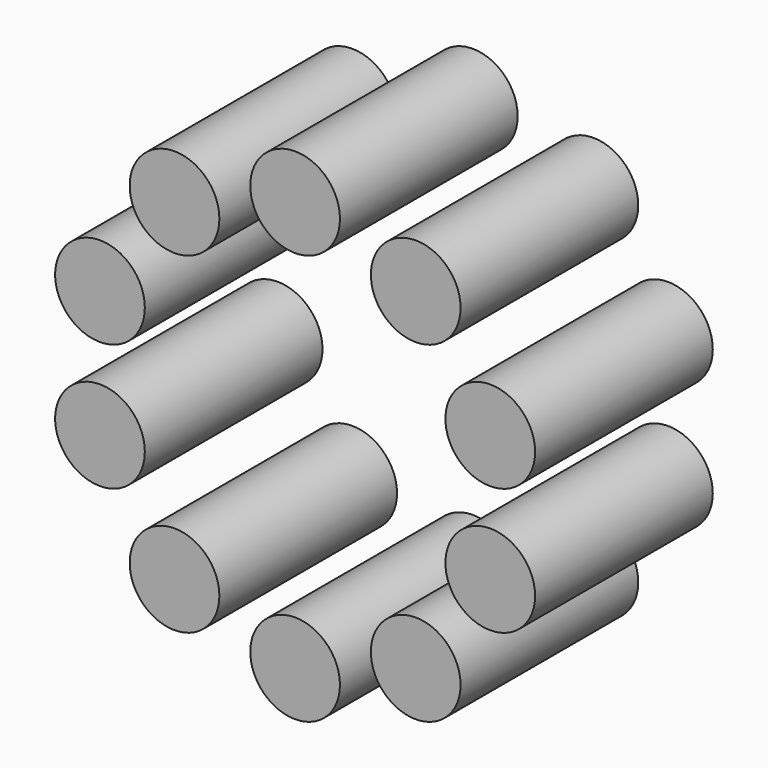
from build123d import *

# Parameters (mm, degrees)
F1_R     = 5.128553
F0_R     = 5.128553
F2_DEPTH = 25.4


with BuildPart() as f2:
    # F1 (on face) + F0 (on Front) → F2 (new body)
    with BuildSketch(Plane.XZ):
        with Locations((0, 23.464633)):
            Circle(F1_R)
    with BuildSketch(Plane.XZ):
        with Locations((13.792165, 18.983287)):
            Circle(F0_R)
        with Locations((22.316192, 7.250971)):
            Circle(F0_R)
        with Locations((22.316192, -7.25097)):
            Circle(F0_R)
        with Locations((13.792166, -18.983286)):
            Circle(F0_R)
        with Locations((1e-06, -23.464633)):
            Circle(F0_R)
        with Locations((-13.792164, -18.983288)):
            Circle(F0_R)
        with Locations((-22.316192, -7.250972)):
            Circle(F0_R)
        with Locations((-22.316193, 7.250969)):
            Circle(F0_R)
        with Locations((-13.792167, 18.983286)):
            Circle(F0_R)
    extrude(amount=F2_DEPTH)


solid = f2.part
